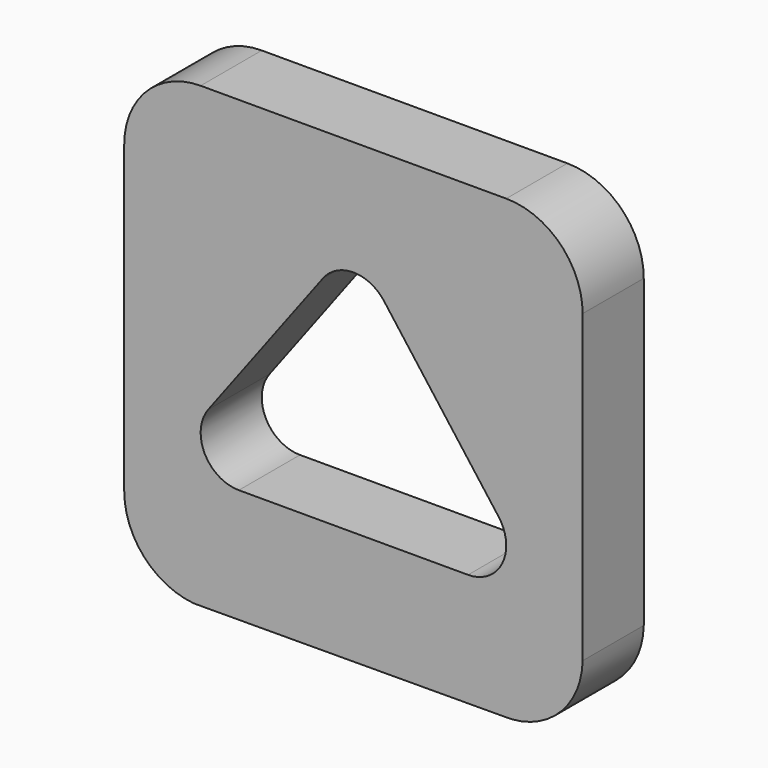
from build123d import *

# Parameters (mm, degrees)
F1_DEPTH = 12.7


with BuildPart() as f1:
    # F0 (on Front) → F1 (new body)
    with BuildSketch(Plane.XZ):
        with BuildLine():
            ThreePointArc((62.916991, 0.262059), (72.175772, 3.67113), (76.199996, 12.679593))
            Line((76.199996, 12.679593), (76.199996, 63.475511))
            ThreePointArc((76.199996, 63.475511), (72.480252, 72.455767), (63.499996, 76.175511))
            Line((63.499996, 76.175511), (12.7, 76.175511))
            ThreePointArc((12.7, 76.175511), (3.719744, 72.455767), (0, 63.475511))
            Line((0, 63.475511), (0, 12.7))
            ThreePointArc((0, 12.7), (3.336727, 4.119842), (11.593561, 0.048289))
            Line((11.593561, 0.048289), (13.911791, 0.057945))
            Line((13.911791, 0.057945), (62.916991, 0.262059))
        make_face()
        with BuildLine():
            ThreePointArc((19.05, 19.05), (13.36973, 22.561509), (13.971765, 29.212352))
            Line((13.971765, 29.212352), (33.021765, 54.587863))
            ThreePointArc((33.021765, 54.587863), (38.1, 57.125511), (43.178236, 54.587862))
            Line((43.178236, 54.587862), (62.228232, 29.212351))
            ThreePointArc((62.228232, 29.212351), (62.830266, 22.561508), (57.149996, 19.05))
            Line((57.149996, 19.05), (19.05, 19.05))
        make_face(mode=Mode.SUBTRACT)
    extrude(amount=F1_DEPTH)


solid = f1.part
